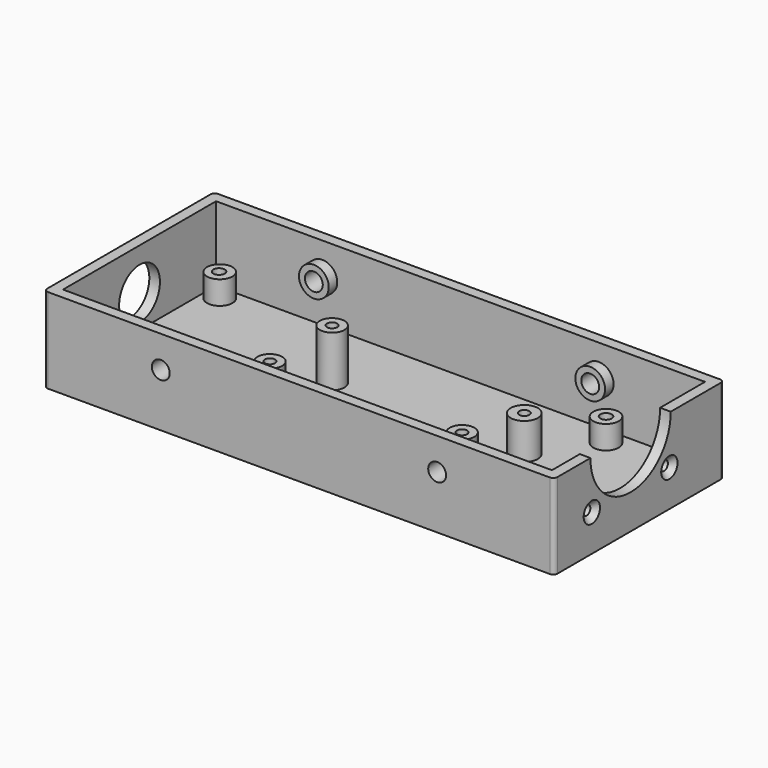
from build123d import *

# Parameters (mm, degrees)
SKETCH_W            = 152.4
SKETCH_H            = 63.5
PAD_DEPTH           = 25.4
FILLET_R            = 1.27
SKETCH001_W         = 146.05
SKETCH001_H         = 57.15
POCKET_DEPTH        = 22.225
SKETCH002_R         = 14.986
POCKET001_DEPTH     = 12.7
SKETCH010_R         = 3.683
PAD002_DEPTH        = 15.1384
SKETCH011_R         = 4.052374
PAD003_DEPTH        = 10.7696
SKETCH012_R         = 1.524
HOLE_DEPTH          = 8.382
HOLE_TIPS_R         = 1.524
SKETCH013_R         = 1.524
HOLE004_DEPTH       = 12.7
HOLE004_TIPS_R      = 1.524
SKETCH014_R         = 3.81
PAD004_DEPTH        = 6.985
HOLE005_D           = 3.4
HOLE005_DEPTH       = 75.7936
HOLE005_CSINK_D     = 6.7056
HOLE005_CSINK_ANGLE = 90
SKETCH016_R         = 7.62
POCKET002_DEPTH     = 5.0038
SKETCH017_R         = 3.81
PAD005_DEPTH        = 6.985
HOLE006_D           = 3.4
HOLE006_DEPTH       = 24.9936
HOLE006_CSINK_D     = 6.7
HOLE006_CSINK_ANGLE = 90
HOLE006_TIPS_R      = 1.7
SKETCH019_R         = 4.445
PAD006_DEPTH        = 3.175
SKETCH020_R         = 2.667
HOLE007_DEPTH       = 12.7
HOLE007_TIPS_R      = 2.667
SKETCH021_R         = 4.445
PAD007_DEPTH        = 3.175
SKETCH022_R         = 2.667
HOLE008_DEPTH       = 12.7
HOLE008_TIPS_R      = 2.667
HOLE009_D           = 2.9
HOLE009_DEPTH       = 24.9936
HOLE009_CSINK_D     = 6.1
HOLE009_CSINK_ANGLE = 90
HOLE009_TIPS_R      = 1.45


with BuildPart() as part:
    # Sketch → Pad (new body)
    with BuildSketch(Plane.XY):
        Rectangle(SKETCH_W, SKETCH_H)
    extrude(amount=PAD_DEPTH)

    # Fillet
    fillet_edges = [part.edges().sort_by_distance(p)[0] for p in [
        (76.2, -31.75, 12.7),
        (76.2, 31.75, 12.7),
        (-76.2, 31.75, 12.7),
        (-76.2, -31.75, 12.7),
    ]]
    fillet(fillet_edges, radius=FILLET_R)

    # Sketch001 (on Face5 of Fillet) → Pocket (cut)
    with BuildSketch(Plane.XY.offset(25.4)):
        Rectangle(SKETCH001_W, SKETCH001_H)
    extrude(amount=-POCKET_DEPTH, mode=Mode.SUBTRACT)

    # Sketch002 (on Face10 of Pocket) → Pocket001 (cut)
    with BuildSketch(Plane.YZ.offset(76.2)):
        with Locations((-3.175, 25.273)):
            Circle(SKETCH002_R)
    extrude(amount=-POCKET001_DEPTH, mode=Mode.SUBTRACT)

    # Sketch010 → Pad002 (join)
    with BuildSketch(Plane.XY.offset(3.175)):
        with Locations((-21.209, -16.1036)):
            Circle(SKETCH010_R)
        with Locations((36.195, -16.1036)):
            Circle(SKETCH010_R)
        with Locations((-21.209, 7.1374)):
            Circle(SKETCH010_R)
    extrude(amount=PAD002_DEPTH)

    # Sketch011 (on Face16 of Pad002) → Pad003 (join)
    with BuildSketch(Plane.XY.offset(3.175)):
        with Locations((36.195, 7.1374)):
            Circle(SKETCH011_R)
    extrude(amount=PAD003_DEPTH)

    # Sketch012 (on Face24 of Pad003) → Hole (cut)
    with BuildSketch(Plane.XY.offset(13.9446)):
        with Locations((36.195, 7.1374)):
            Circle(SKETCH012_R)
    extrude(amount=-HOLE_DEPTH, mode=Mode.SUBTRACT)

    # Hole tips → Hole tip 1 section 0
    with BuildSketch(Plane.XY.offset(5.5626), mode=Mode.PRIVATE) as hole_tip_1_s0:
        with Locations((36.195, 7.1374)):
            Circle(HOLE_TIPS_R)
    loft([hole_tip_1_s0.sketch, Vertex(36.195, 7.1374, 4.646888)], mode=Mode.SUBTRACT)

    # Sketch013 (on Face23 of Hole) → Hole004 (cut)
    with BuildSketch(Plane.XY.offset(18.3134)):
        with Locations((-21.209, 7.1374)):
            Circle(SKETCH013_R)
        with Locations((36.195, -16.1036)):
            Circle(SKETCH013_R)
        with Locations((-21.209, -16.1036)):
            Circle(SKETCH013_R)
    extrude(amount=-HOLE004_DEPTH, mode=Mode.SUBTRACT)

    # Hole004 tips → Hole004 tip 1 section 0
    with BuildSketch(Plane.XY.offset(5.6134), mode=Mode.PRIVATE) as hole004_tip_1_s0:
        with Locations((-21.209, 7.1374)):
            Circle(HOLE004_TIPS_R)
    loft([hole004_tip_1_s0.sketch, Vertex(-21.209, 7.1374, 4.697688)], mode=Mode.SUBTRACT)

    # Hole004 tips → Hole004 tip 2 section 0
    with BuildSketch(Plane.XY.offset(5.6134), mode=Mode.PRIVATE) as hole004_tip_2_s0:
        with Locations((36.195, -16.1036)):
            Circle(HOLE004_TIPS_R)
    loft([hole004_tip_2_s0.sketch, Vertex(36.195, -16.1036, 4.697688)], mode=Mode.SUBTRACT)

    # Hole004 tips → Hole004 tip 3 section 0
    with BuildSketch(Plane.XY.offset(5.6134), mode=Mode.PRIVATE) as hole004_tip_3_s0:
        with Locations((-21.209, -16.1036)):
            Circle(HOLE004_TIPS_R)
    loft([hole004_tip_3_s0.sketch, Vertex(-21.209, -16.1036, 4.697688)], mode=Mode.SUBTRACT)

    # Sketch014 (on Face16 of Hole004) → Pad004 (join)
    with BuildSketch(Plane.XY.offset(3.175)):
        with Locations((-68.3768, 24.13)):
            Circle(SKETCH014_R)
        with Locations((-68.3768, -24.13)):
            Circle(SKETCH014_R)
    extrude(amount=PAD004_DEPTH)

    # Hole005
    with Locations(Plane(origin=(0, 0, 0), x_dir=(1, 0, 0), z_dir=(0, 0, -1))):
        with Locations((-68.58, 24.13), (-68.58, -24.13)):
            CounterSinkHole(HOLE005_D / 2, HOLE005_CSINK_D / 2, depth=HOLE005_DEPTH, counter_sink_angle=HOLE005_CSINK_ANGLE)

    # Sketch016 (on Face1 of Hole005) → Pocket002 (cut)
    with BuildSketch(Plane(origin=(-76.2, 0, 0), x_dir=(0, -1, 0), z_dir=(-1, 0, 0))):
        with Locations((0, 12.7)):
            Circle(SKETCH016_R)
    extrude(amount=-POCKET002_DEPTH, mode=Mode.SUBTRACT)

    # Sketch017 (on Face21 of Pocket002) → Pad005 (join)
    with BuildSketch(Plane.XY.offset(3.175)):
        with Locations((47.625, -23.368)):
            Circle(SKETCH017_R)
        with Locations((47.625, 23.368)):
            Circle(SKETCH017_R)
    extrude(amount=PAD005_DEPTH)

    # Hole006
    with Locations(Plane(origin=(0, 0, 0), x_dir=(1, 0, 0), z_dir=(0, 0, -1))):
        with Locations((47.625, 23.368), (47.625, -23.368)):
            CounterSinkHole(HOLE006_D / 2, HOLE006_CSINK_D / 2, depth=HOLE006_DEPTH, counter_sink_angle=HOLE006_CSINK_ANGLE)

    # Hole006 tips → Hole006 tip 1 section 0
    with BuildSketch(Plane(origin=(0, 0, 24.9936), x_dir=(1, 0, 0), z_dir=(0, 0, -1)), mode=Mode.PRIVATE) as hole006_tip_1_s0:
        with Locations((47.625, 23.368)):
            Circle(HOLE006_TIPS_R)
    loft([hole006_tip_1_s0.sketch, Vertex(47.625, -23.368, 26.015063)], mode=Mode.SUBTRACT)

    # Hole006 tips → Hole006 tip 2 section 0
    with BuildSketch(Plane(origin=(0, 0, 24.9936), x_dir=(1, 0, 0), z_dir=(0, 0, -1)), mode=Mode.PRIVATE) as hole006_tip_2_s0:
        with Locations((47.625, -23.368)):
            Circle(HOLE006_TIPS_R)
    loft([hole006_tip_2_s0.sketch, Vertex(47.625, 23.368, 26.015063)], mode=Mode.SUBTRACT)

    # Sketch019 (on Face20 of Hole006) → Pad006 (join)
    with BuildSketch(Plane(origin=(0, -28.575, 0), x_dir=(-1, 0, 0), z_dir=(0, 1, 0))):
        with Locations((-41.275, 15.875)):
            Circle(SKETCH019_R)
        with Locations((41.275, 15.875)):
            Circle(SKETCH019_R)
    extrude(amount=PAD006_DEPTH)

    # Sketch020 (on Face8 of Pad006) → Hole007 (cut)
    with BuildSketch(Plane.XZ.offset(31.75)):
        with Locations((-41.275, 15.875)):
            Circle(SKETCH020_R)
        with Locations((41.275, 15.875)):
            Circle(SKETCH020_R)
    extrude(amount=-HOLE007_DEPTH, mode=Mode.SUBTRACT)

    # Hole007 tips → Hole007 tip 1 section 0
    with BuildSketch(Plane.XZ.offset(19.05), mode=Mode.PRIVATE) as hole007_tip_1_s0:
        with Locations((-41.275, 15.875)):
            Circle(HOLE007_TIPS_R)
    loft([hole007_tip_1_s0.sketch, Vertex(-41.275, -17.447505, 15.875)], mode=Mode.SUBTRACT)

    # Hole007 tips → Hole007 tip 2 section 0
    with BuildSketch(Plane.XZ.offset(19.05), mode=Mode.PRIVATE) as hole007_tip_2_s0:
        with Locations((41.275, 15.875)):
            Circle(HOLE007_TIPS_R)
    loft([hole007_tip_2_s0.sketch, Vertex(41.275, -17.447505, 15.875)], mode=Mode.SUBTRACT)

    # Sketch021 (on Face18 of Hole007) → Pad007 (join)
    with BuildSketch(Plane.XZ.offset(-28.575)):
        with Locations((-41.275, 15.875)):
            Circle(SKETCH021_R)
        with Locations((41.275, 15.875)):
            Circle(SKETCH021_R)
    extrude(amount=PAD007_DEPTH)

    # Sketch022 (on Face7 of Pad007) → Hole008 (cut)
    with BuildSketch(Plane(origin=(0, 31.75, 0), x_dir=(-1, 0, 0), z_dir=(0, 1, 0))):
        with Locations((-41.275, 15.875)):
            Circle(SKETCH022_R)
        with Locations((41.275, 15.875)):
            Circle(SKETCH022_R)
    extrude(amount=-HOLE008_DEPTH, mode=Mode.SUBTRACT)

    # Hole008 tips → Hole008 tip 1 section 0
    with BuildSketch(Plane(origin=(0, 19.05, 0), x_dir=(-1, 0, 0), z_dir=(0, 1, 0)), mode=Mode.PRIVATE) as hole008_tip_1_s0:
        with Locations((-41.275, 15.875)):
            Circle(HOLE008_TIPS_R)
    loft([hole008_tip_1_s0.sketch, Vertex(41.275, 17.447505, 15.875)], mode=Mode.SUBTRACT)

    # Hole008 tips → Hole008 tip 2 section 0
    with BuildSketch(Plane(origin=(0, 19.05, 0), x_dir=(-1, 0, 0), z_dir=(0, 1, 0)), mode=Mode.PRIVATE) as hole008_tip_2_s0:
        with Locations((41.275, 15.875)):
            Circle(HOLE008_TIPS_R)
    loft([hole008_tip_2_s0.sketch, Vertex(-41.275, 17.447505, 15.875)], mode=Mode.SUBTRACT)

    # Hole009
    with Locations(Plane.YZ.offset(76.2)):
        with Locations((-17.653, 10.922), (11.303, 10.922)):
            CounterSinkHole(HOLE009_D / 2, HOLE009_CSINK_D / 2, depth=HOLE009_DEPTH, counter_sink_angle=HOLE009_CSINK_ANGLE)

    # Hole009 tips → Hole009 tip 1 section 0
    with BuildSketch(Plane.YZ.offset(51.2064), mode=Mode.PRIVATE) as hole009_tip_1_s0:
        with Locations((-17.653, 10.922)):
            Circle(HOLE009_TIPS_R)
    loft([hole009_tip_1_s0.sketch, Vertex(50.335152, -17.653, 10.922)], mode=Mode.SUBTRACT)

    # Hole009 tips → Hole009 tip 2 section 0
    with BuildSketch(Plane.YZ.offset(51.2064), mode=Mode.PRIVATE) as hole009_tip_2_s0:
        with Locations((11.303, 10.922)):
            Circle(HOLE009_TIPS_R)
    loft([hole009_tip_2_s0.sketch, Vertex(50.335152, 11.303, 10.922)], mode=Mode.SUBTRACT)


solid = part.part
